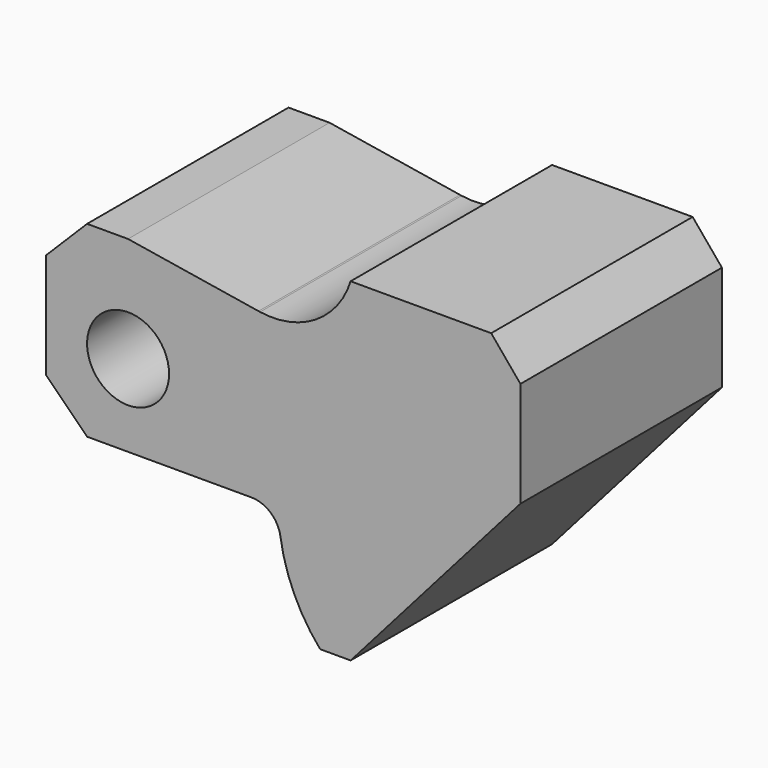
from build123d import *

# Parameters (mm, degrees)
F0_R     = 7
F1_DEPTH = 43


with BuildPart() as f1:
    # F0 (on Front) → F1 (new body)
    with BuildSketch(Plane.XZ):
        with BuildLine():
            Line((35.5, 28.5), (11.5, 28.5))
            ThreePointArc((11.5, 28.5), (5.552121, 20.817162), (-3.964015, 18.855932))
            ThreePointArc((-3.964015, 18.855932), (-4.091064, 18.875878), (-4.217924, 18.896989))
            Line((-4.217924, 18.896989), (-26.5, 22.5))
            Line((-26.5, 22.5), (-33.5, 22.5))
            Line((-33.5, 22.5), (-40.5, 15.5))
            Line((-40.5, 15.5), (-40.5, 4.5))
            Line((-40.5, 4.5), (-40.5, -2.5))
            Line((-40.5, -2.5), (-33.5, -9.5))
            Line((-33.5, -9.5), (-5.433374, -9.5))
            ThreePointArc((-5.433374, -9.5), (-2.168138, -10.713414), (-0.487735, -13.764706))
            ThreePointArc((-0.487735, -13.764706), (1.849095, -21.615672), (6.288067, -28.5))
            Line((6.288067, -28.5), (11.5, -28.5))
            Line((11.5, -28.5), (40.5, 4.5))
            Line((40.5, 4.5), (40.5, 11.352548))
            Line((40.5, 11.352548), (40.5, 22.5))
            Line((40.5, 22.5), (35.5, 28.5))
        make_face()
        with Locations((-26.5, 4.5)):
            Circle(F0_R, mode=Mode.SUBTRACT)
    extrude(amount=F1_DEPTH)


solid = f1.part
